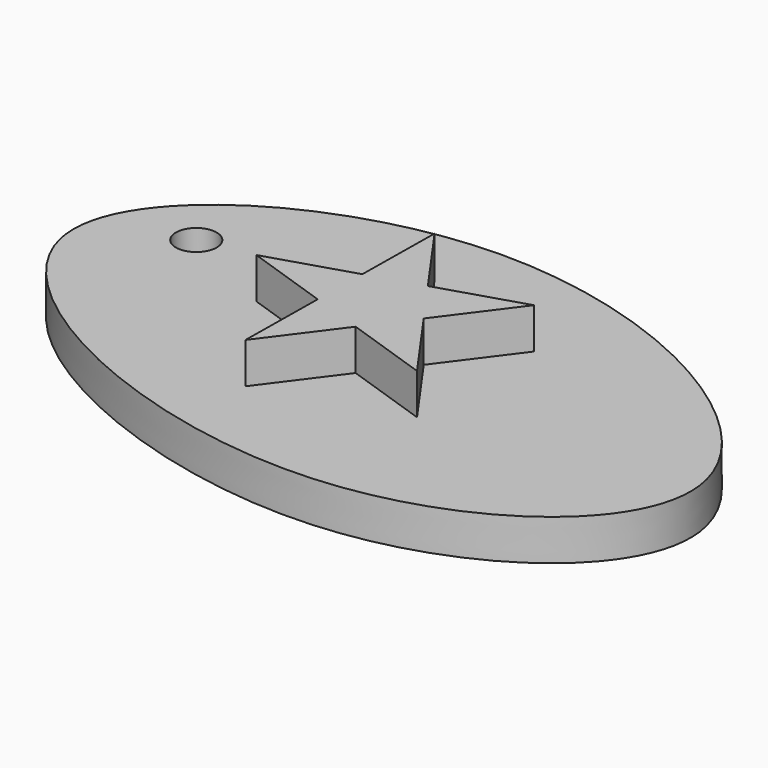
from build123d import *

# Parameters (mm, degrees)
F1_DEPTH = 1.5875
F3_DEPTH = 1.5875
F4_R     = 0.79375
F5_DEPTH = 25.4


with BuildPart() as f1:
    # F0 (on Top) → F1 (new body)
    with BuildSketch(Plane.XY):
        with BuildLine():
            add(Edge.make_bspline(
                [(0, 0), (6.6523111957, 0.0557712568), (19.896266254, -7.833527293), (4.4657572226, -18.8183048329), (-18.0090351962, -7.6475541783), (-5.989720748, -0.0502162698), (0, 0)],
                knots=[0, 0, 0, 0, 0.2639060181, 0.4900307759, 0.7623798247, 1, 1, 1, 1], degree=3))
        make_face()
    extrude(amount=F1_DEPTH)

    # F2 (on face) → F3 (join)
    with BuildSketch(Plane.XY.offset(1.5875)):
        Polygon((1.3973190894, -8.8517820117), (2.675915361, -7.1376187763), (1.4407572228, -5.3918958896), (-0.6012087597, -6.0271430461), (-0.6280550025, -8.1654702668), align=None)
        Polygon((1.3973190894, -8.8517820117), (4.6744432101, -9.9622577419), (2.675915361, -7.1376187763), align=None)
        Polygon((-0.6280550025, -8.1654702668), (-0.6714931359, -11.6253563889), (1.3973190894, -8.8517820117), align=None)
        Polygon((-0.6012087597, -6.0271430461), (-3.9051791232, -7.0549945366), (-0.6280550025, -8.1654702668), align=None)
        Polygon((2.675915361, -7.1376187763), (4.7447275863, -4.3640443991), (1.4407572228, -5.3918958896), align=None)
        Polygon((1.4407572228, -5.3918958896), (-0.5577706263, -2.567256924), (-0.6012087597, -6.0271430461), align=None)
    extrude(amount=F3_DEPTH)

    # F4 (on face) → F5 (cut)
    with BuildSketch(Plane.XY.offset(1.5875)):
        with Locations((-7.8512718901, -5.0417510793)):
            Circle(F4_R)
    extrude(amount=-F5_DEPTH, mode=Mode.SUBTRACT)


solid = f1.part
